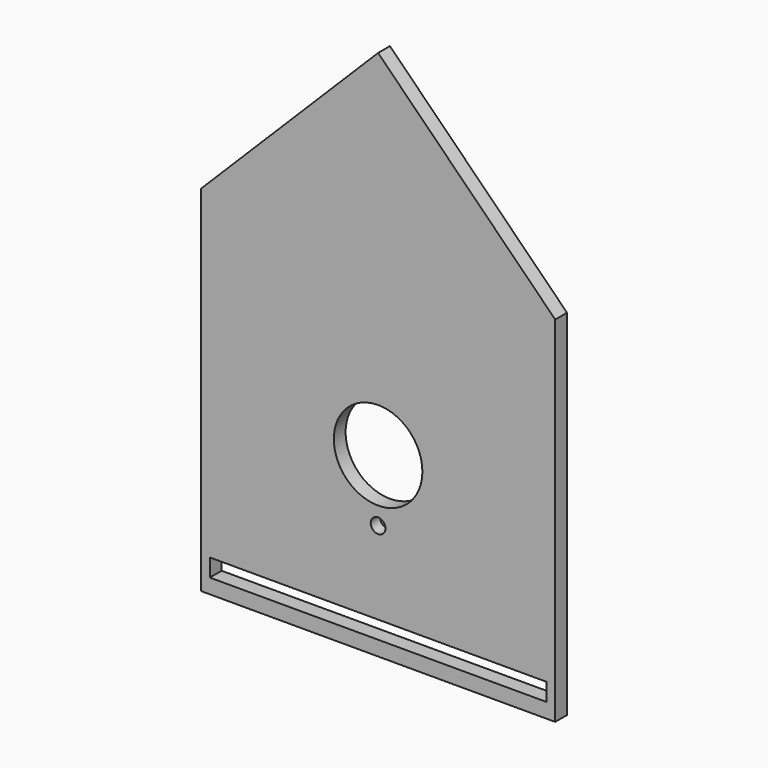
from build123d import *

# Parameters (mm, degrees)
F0_W     = 152.4
F0_H     = 152.4
F1_DEPTH = 6.35
F2_R     = 19.05
F3_DEPTH = 6.351
F4_R     = 3.175
F5_DEPTH = 5.08
F6_W     = 144.78
F6_H     = 7.62
F7_DEPTH = 25.4


with BuildPart() as f1:
    # F0 (on Front) → F1 (new body)
    with BuildSketch(Plane.XZ):
        Polygon((76.2, 76.2), (0, 0), (152.4, 0), align=None)
        with Locations((76.2, -76.2)):
            Rectangle(F0_W, F0_H)
    extrude(amount=F1_DEPTH)

    # F2 (on face) → F3 (cut, through all)
    with BuildSketch(Plane.XZ.offset(6.35)):
        with Locations((76.2, -76.2)):
            Circle(F2_R)
    extrude(amount=-F3_DEPTH, mode=Mode.SUBTRACT)

    # F4 (on face) → F5 (cut)
    with BuildSketch(Plane.XZ.offset(6.35)):
        with Locations((76.2, -102.87)):
            Circle(F4_R)
    extrude(amount=-F5_DEPTH, mode=Mode.SUBTRACT)

    # F6 (on face) → F7 (cut)
    with BuildSketch(Plane.XZ.offset(6.35)):
        with Locations((76.2, -142.24)):
            Rectangle(F6_W, F6_H)
    extrude(amount=-F7_DEPTH, mode=Mode.SUBTRACT)


solid = f1.part
